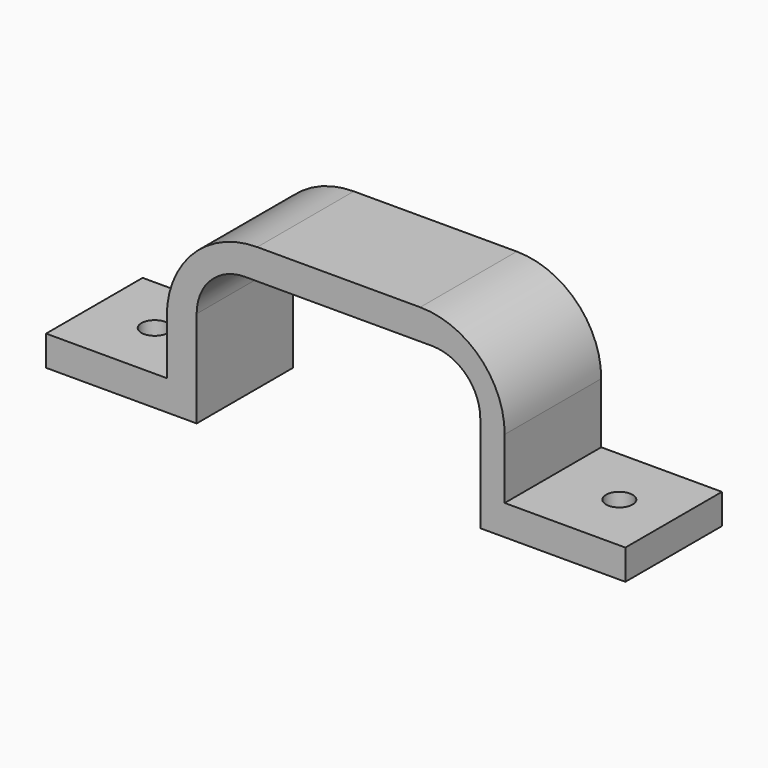
from build123d import *

# Parameters (mm, degrees)
F0_W     = 20
F0_H     = 5
F1_DEPTH = 20
F2_R     = 2.2
F3_DEPTH = 50


with BuildPart() as f1:
    # F0 (on Front) → F1 (new body)
    with BuildSketch(Plane.XZ):
        with BuildLine():
            ThreePointArc((-23.5, 4), (-21.156854, 9.656854), (-15.5, 12))
            Line((-15.5, 12), (15.5, 12))
            ThreePointArc((15.5, 12), (21.156854, 9.656854), (23.5, 4))
            Line((23.5, 4), (23.5, -12))
            Line((23.5, -12), (27.546195, -12))
            Line((27.546195, -12), (27.546195, -7))
            Line((27.546195, -7), (27.546195, 3))
            ThreePointArc((27.546195, 3), (23.44569, 12.899495), (13.546195, 17))
            Line((13.546195, 17), (-13.453805, 17))
            ThreePointArc((-13.453805, 17), (-24.060407, 12.606602), (-28.453805, 2))
            Line((-28.453805, 2), (-28.453805, -7))
            Line((-28.453805, -7), (-28.453805, -12))
            Line((-28.453805, -12), (-23.5, -12))
            Line((-23.5, -12), (-23.5, 4))
        make_face()
        with Locations((-38.453805, -9.5)):
            Rectangle(F0_W, F0_H)
        with Locations((37.546195, -9.5)):
            Rectangle(F0_W, F0_H)
    extrude(amount=F1_DEPTH)

    # F2 (on face) → F3 (cut)
    with BuildSketch(Plane.XY.offset(-7)):
        with Locations((38.546195, -10)):
            Circle(F2_R)
        with Locations((-38.453805, -10)):
            Circle(F2_R)
    extrude(amount=-F3_DEPTH, mode=Mode.SUBTRACT)


solid = f1.part
